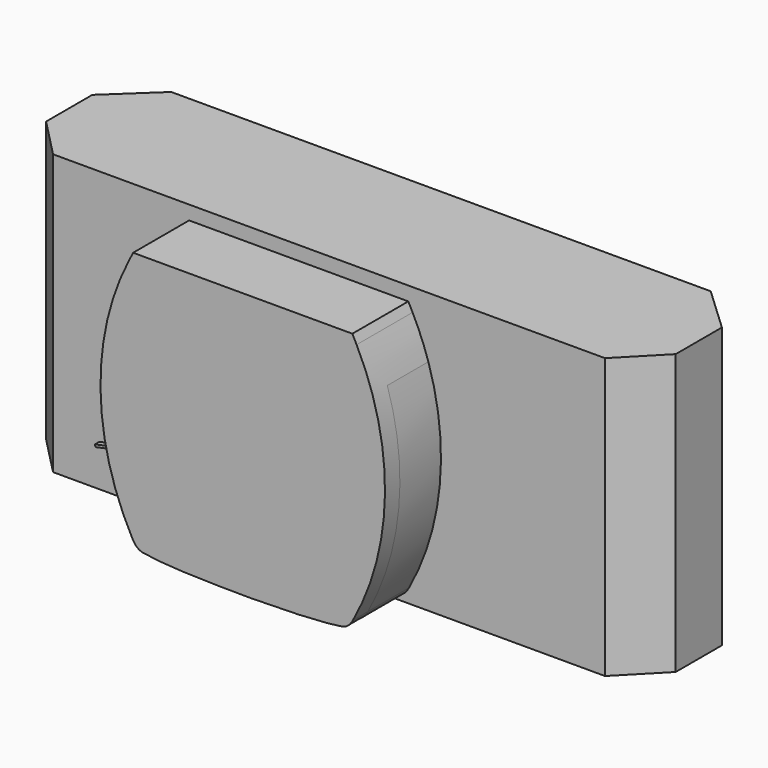
from build123d import *

# Parameters (mm, degrees)
F1_DEPTH  = 60
F3_DEPTH  = 15
F4_W      = 87.3895585537
F4_H      = 47
F5_DEPTH  = 11
F6_DEPTH  = 11
F9_W      = 3.6720675271
F9_H      = 1.174679026
F10_DEPTH = 0.5


with BuildPart() as f1:
    # F0 (on Top) → F1 (new body)
    with BuildSketch(Plane.XY):
        Polygon((-61, 8.5412541542), (-52.6709560065, 0), (65.6709560065, 0), (74, 8.5412541542), (74, 20.9240532046), (64.3365685589, 30), (-51.3365685589, 30), (-61, 20.9240532046), align=None)
    extrude(amount=F1_DEPTH)


with BuildPart() as f3:
    # F2 (on face) → F3 (new body)
    with BuildSketch(Plane.XZ):
        with BuildLine():
            Line((0, 57), (-23.5, 57))
            Line((-23.5, 57), (-24.407419424, 55.2177009261))
            ThreePointArc((-24.407419424, 55.2177009261), (-30.4941821284, 29.01565487), (-23.6544745741, 3))
            add(Edge.make_bspline(
                [(-23.6544745741, 3), (-22.6799163941, 1.2150671741), (-20.5407792126, 0.9001688261), (-14.7933912038, 0.1811527802), (-2.7868645717, 0), (0, 0)],
                knots=[0, 0, 0, 0, 0.2334367272, 0.5344870424, 1, 1, 1, 1], degree=3))
            add(Edge.make_bspline(
                [(23.6544745741, 3), (22.6799163941, 1.2150671741), (20.5407792126, 0.9001688261), (14.7933912038, 0.1811527802), (2.7868645717, 0), (0, 0)],
                knots=[0, 0, 0, 0, 0.2334367272, 0.5344870424, 1, 1, 1, 1], degree=3))
            ThreePointArc((23.6544745741, 3), (30.4941821284, 29.01565487), (24.407419424, 55.2177009261))
            Line((24.407419424, 55.2177009261), (23.5, 57))
            Line((23.5, 57), (0, 57))
        make_face()
    extrude(amount=F3_DEPTH)

    # F4 (on face) → F5 (cut)
    with BuildSketch(Plane.XZ):
        with Locations((3.2228827477, 23.5)):
            Rectangle(F4_W, F4_H)
    extrude(amount=F5_DEPTH, mode=Mode.SUBTRACT)


with BuildPart() as f6:
    # F6 (new): a face of the model
    f6_faces = [f3.part.faces().sort_by_distance(p)[0] for p in [
        (0, -11, 24.4159360274),
    ]]
    extrude(f6_faces, amount=F6_DEPTH)


with BuildPart() as f10:
    # F9 (on face) → F10 (new body)
    with BuildSketch(Plane(origin=(-5.0206895731, 0, 23.2331749697), x_dir=(0.9774376194, 0, 0.211224289), z_dir=(0.211224289, 0, -0.9774376194))):
        with Locations((-26.6114750484, 13)):
            Rectangle(F9_W, F9_H)
    extrude(amount=F10_DEPTH)


solid = Compound([f1.part, f3.part, f6.part, f10.part])
